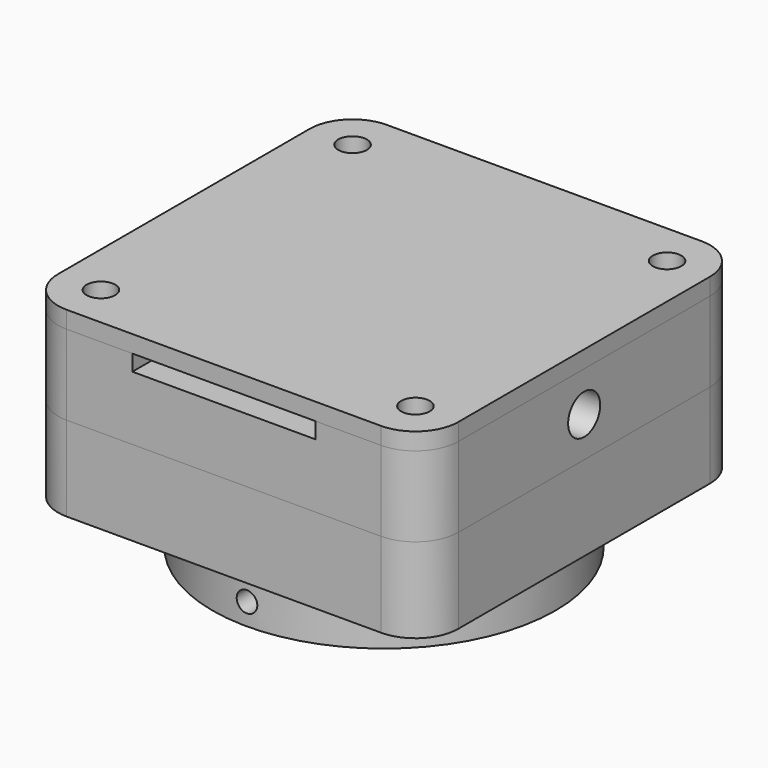
from build123d import *

# Parameters (mm, degrees)
F0_R      = 1.27
F1_DEPTH  = 4.699
F0_W      = 12.7
F0_H      = 23.8125
F0_W_2    = 8.89
F0_H_2    = 8.89
F2_DEPTH  = 2.54
F3_DEPTH  = 8.89
F0_W_3    = 20.32
F0_H_3    = 4.7625
F4_DEPTH  = 7.112
F0_R_2    = 3.81
F5_DEPTH  = 1.27
F6_R      = 1.5875
F6_R_2    = 12.827
F7_DEPTH  = 15.7734
F8_R      = 1.5875
F9_DEPTH  = 1.905
F10_R     = 1.143
F11_DEPTH = 9.4500273394
F12_R     = 1.5875
F12_R_2   = 19.05
F13_DEPTH = 6.35
F14_R     = 2.2225
F15_DEPTH = 6.985
F16_R     = 2.2225
F17_DEPTH = 6.985


with BuildPart() as f1:
    # F0 (on Top) → F1 (new body)
    with BuildSketch(Plane.XY):
        with BuildLine():
            Line((-6.35, -6.35), (-6.35, 17.4625))
            Line((-6.35, 17.4625), (-12.7, 17.4625))
            ThreePointArc((-12.7, 17.4625), (-13.0288537861, 15.7234808799), (-13.97, 14.2246226089))
            Line((-13.97, 14.2246226089), (-13.97, -14.2246226089))
            ThreePointArc((-13.97, -14.2246226089), (-13.0288537861, -15.7234808799), (-12.7, -17.4625))
            Line((-12.7, -17.4625), (-10.16, -17.4625))
            Line((-10.16, -17.4625), (10.16, -17.4625))
            Line((10.16, -17.4625), (12.7, -17.4625))
            ThreePointArc((12.7, -17.4625), (13.0288537861, -15.7234808799), (13.97, -14.2246226089))
            Line((13.97, -14.2246226089), (13.97, 14.2246226089))
            ThreePointArc((13.97, 14.2246226089), (13.0288537861, 15.7234808799), (12.7, 17.4625))
            Line((12.7, 17.4625), (6.35, 17.4625))
            Line((6.35, 17.4625), (6.35, -6.35))
            Line((6.35, -6.35), (-6.35, -6.35))
        make_face()
        with Locations((-10.16, 0)):
            Circle(F0_R, mode=Mode.SUBTRACT)
        with Locations((-10.16, 12.7)):
            Circle(F0_R, mode=Mode.SUBTRACT)
        with Locations((10.16, 0)):
            Circle(F0_R, mode=Mode.SUBTRACT)
        with Locations((10.16, 12.7)):
            Circle(F0_R, mode=Mode.SUBTRACT)
        with Locations((10.16, 12.7)):
            Circle(F0_R)
        with Locations((-10.16, 12.7)):
            Circle(F0_R)
    extrude(amount=F1_DEPTH)

    # F0 (on Top) → F2 (join)
    with BuildSketch(Plane.XY):
        with Locations((0, 5.55625)):
            Rectangle(F0_W, F0_H)
        Rectangle(F0_W_2, F0_H_2, mode=Mode.SUBTRACT)
    extrude(amount=F2_DEPTH)

    # F0 (on Top) → F3 (join)
    with BuildSketch(Plane.XY):
        with BuildLine():
            ThreePointArc((17.4625, -22.225), (14.0949039546, -20.8300960454), (12.7, -17.4625))
            Line((12.7, -17.4625), (10.16, -17.4625))
            Line((10.16, -17.4625), (10.16, -22.225))
            Line((10.16, -22.225), (17.4625, -22.225))
        make_face()
        with BuildLine():
            ThreePointArc((17.4625, -22.225), (20.8300960454, -20.8300960454), (22.225, -17.4625))
            ThreePointArc((22.225, -17.4625), (20.8300960454, -14.0949039546), (17.4625, -12.7))
            Line((17.4625, -12.7), (17.4625, -15.875))
            ThreePointArc((17.4625, -15.875), (18.5850320151, -16.3399679849), (19.05, -17.4625))
            ThreePointArc((19.05, -17.4625), (17.4625, -19.05), (15.875, -17.4625))
            Line((15.875, -17.4625), (12.7, -17.4625))
            ThreePointArc((12.7, -17.4625), (14.0949039546, -20.8300960454), (17.4625, -22.225))
        make_face()
        with BuildLine():
            ThreePointArc((17.4625, -12.7), (15.5571109092, -13.0977664844), (13.97, -14.2246226089))
            ThreePointArc((13.97, -14.2246226089), (13.0288537861, -15.7234808799), (12.7, -17.4625))
            Line((12.7, -17.4625), (15.875, -17.4625))
            ThreePointArc((15.875, -17.4625), (16.3399679849, -16.3399679849), (17.4625, -15.875))
            Line((17.4625, -15.875), (17.4625, -12.7))
        make_face()
        with BuildLine():
            Line((22.225, -17.4625), (22.225, 17.4625))
            ThreePointArc((22.225, 17.4625), (20.8300960454, 14.0949039546), (17.4625, 12.7))
            Line((17.4625, 12.7), (17.4625, -12.7))
            ThreePointArc((17.4625, -12.7), (20.8300960454, -14.0949039546), (22.225, -17.4625))
        make_face()
        with BuildLine():
            Line((15.875, 17.4625), (12.7, 17.4625))
            ThreePointArc((12.7, 17.4625), (13.0288537861, 15.7234808799), (13.97, 14.2246226089))
            ThreePointArc((13.97, 14.2246226089), (15.5571109092, 13.0977664844), (17.4625, 12.7))
            Line((17.4625, 12.7), (17.4625, 15.875))
            ThreePointArc((17.4625, 15.875), (16.3399679849, 16.3399679849), (15.875, 17.4625))
        make_face()
        with BuildLine():
            ThreePointArc((17.4625, 22.225), (14.0949039546, 20.8300960454), (12.7, 17.4625))
            Line((12.7, 17.4625), (15.875, 17.4625))
            ThreePointArc((15.875, 17.4625), (17.4625, 19.05), (19.05, 17.4625))
            ThreePointArc((19.05, 17.4625), (18.5850320151, 16.3399679849), (17.4625, 15.875))
            Line((17.4625, 15.875), (17.4625, 12.7))
            ThreePointArc((17.4625, 12.7), (20.8300960454, 14.0949039546), (22.225, 17.4625))
            ThreePointArc((22.225, 17.4625), (20.8300960454, 20.8300960454), (17.4625, 22.225))
        make_face()
        with BuildLine():
            Line((-12.7, 17.4625), (-6.35, 17.4625))
            Line((-6.35, 17.4625), (6.35, 17.4625))
            Line((6.35, 17.4625), (12.7, 17.4625))
            ThreePointArc((12.7, 17.4625), (14.0949039546, 20.8300960454), (17.4625, 22.225))
            Line((17.4625, 22.225), (-17.4624999301, 22.225))
            ThreePointArc((-17.4624999301, 22.225), (-14.0949039299, 20.8300960207), (-12.7, 17.4625))
        make_face()
        with BuildLine():
            ThreePointArc((-12.7, -17.4625), (-13.0288537861, -15.7234808799), (-13.97, -14.2246226089))
            ThreePointArc((-13.97, -14.2246226089), (-15.5571109092, -13.0977664844), (-17.4625, -12.7))
            Line((-17.4625, -12.7), (-17.4625, -15.875))
            ThreePointArc((-17.4625, -15.875), (-16.3399679849, -16.3399679849), (-15.875, -17.4625))
            Line((-15.875, -17.4625), (-12.7, -17.4625))
        make_face()
        with BuildLine():
            Line((-17.4625, -15.875), (-17.4625, -12.7))
            ThreePointArc((-17.4625, -12.7), (-20.8300960454, -14.0949039546), (-22.225, -17.4625))
            ThreePointArc((-22.225, -17.4625), (-20.8300960661, -20.8300960247), (-17.4625000586, -22.225))
            ThreePointArc((-17.4625000586, -22.225), (-14.0949039753, -20.8300960661), (-12.7, -17.4625))
            Line((-12.7, -17.4625), (-15.875, -17.4625))
            ThreePointArc((-15.875, -17.4625), (-18.5850320151, -18.5850320151), (-17.4625, -15.875))
        make_face()
        with BuildLine():
            Line((-17.4625, -12.7), (-17.4625, 12.7))
            ThreePointArc((-17.4625, 12.7), (-20.8300960454, 14.0949039546), (-22.225, 17.4625))
            Line((-22.225, 17.4625), (-22.225, -17.4625))
            ThreePointArc((-22.225, -17.4625), (-20.8300960454, -14.0949039546), (-17.4625, -12.7))
        make_face()
        with BuildLine():
            ThreePointArc((-13.97, 14.2246226089), (-13.0288537861, 15.7234808799), (-12.7, 17.4625))
            Line((-12.7, 17.4625), (-15.875, 17.4625))
            ThreePointArc((-15.875, 17.4625), (-16.3399679849, 16.3399679849), (-17.4625, 15.875))
            Line((-17.4625, 15.875), (-17.4625, 12.7))
            ThreePointArc((-17.4625, 12.7), (-15.5571109092, 13.0977664844), (-13.97, 14.2246226089))
        make_face()
        with BuildLine():
            Line((-15.875, 17.4625), (-12.7, 17.4625))
            ThreePointArc((-12.7, 17.4625), (-14.0949039299, 20.8300960207), (-17.4624999301, 22.225))
            ThreePointArc((-17.4624999301, 22.225), (-20.8300960207, 20.8300960701), (-22.225, 17.4625))
            ThreePointArc((-22.225, 17.4625), (-20.8300960454, 14.0949039546), (-17.4625, 12.7))
            Line((-17.4625, 12.7), (-17.4625, 15.875))
            ThreePointArc((-17.4625, 15.875), (-18.5850320151, 18.5850320151), (-15.875, 17.4625))
        make_face()
        with BuildLine():
            Line((-10.16, -17.4625), (-12.7, -17.4625))
            ThreePointArc((-12.7, -17.4625), (-14.0949039753, -20.8300960661), (-17.4625000586, -22.225))
            Line((-17.4625000586, -22.225), (-10.16, -22.225))
            Line((-10.16, -22.225), (-10.16, -17.4625))
        make_face()
        with BuildLine():
            Line((-13.97, -14.2246226089), (-13.97, 14.2246226089))
            ThreePointArc((-13.97, 14.2246226089), (-15.5571109092, 13.0977664844), (-17.4625, 12.7))
            Line((-17.4625, 12.7), (-17.4625, -12.7))
            ThreePointArc((-17.4625, -12.7), (-15.5571109092, -13.0977664844), (-13.97, -14.2246226089))
        make_face()
        with BuildLine():
            ThreePointArc((17.4625, 12.7), (15.5571109092, 13.0977664844), (13.97, 14.2246226089))
            Line((13.97, 14.2246226089), (13.97, -14.2246226089))
            ThreePointArc((13.97, -14.2246226089), (15.5571109092, -13.0977664844), (17.4625, -12.7))
            Line((17.4625, -12.7), (17.4625, 12.7))
        make_face()
    extrude(amount=F3_DEPTH)

    # F0 (on Top) → F4 (join)
    with BuildSketch(Plane.XY):
        with Locations((0, -19.84375)):
            Rectangle(F0_W_3, F0_H_3)
    extrude(amount=F4_DEPTH)

    # F0 (on Top) → F5 (join)
    with BuildSketch(Plane.XY):
        Rectangle(F0_W_2, F0_H_2)
        Circle(F0_R_2, mode=Mode.SUBTRACT)
    extrude(amount=F5_DEPTH)

    # F14 (on face) → F15 (cut)
    with BuildSketch(Plane(origin=(-22.225, 0, 0), x_dir=(0, -1, 0), z_dir=(-1, 0, 0))):
        with Locations((0, 4.445)):
            Circle(F14_R)
    extrude(amount=-F15_DEPTH, mode=Mode.SUBTRACT)

    # F16 (on face) → F17 (cut)
    with BuildSketch(Plane.YZ.offset(22.225)):
        with Locations((0, 4.445)):
            Circle(F16_R)
    extrude(amount=-F17_DEPTH, mode=Mode.SUBTRACT)


with BuildPart() as f7:
    # F6 (on face) → F7 (new body)
    with BuildSketch(Plane(origin=(0, 0, 0), x_dir=(1, 0, 0), z_dir=(0, 0, -1))):
        with BuildLine():
            ThreePointArc((22.225, 17.4625), (20.8300960454, 20.8300960454), (17.4625, 22.225))
            Line((17.4625, 22.225), (-17.4625000586, 22.225))
            ThreePointArc((-17.4625000586, 22.225), (-20.8300960661, 20.8300960247), (-22.225, 17.4625))
            Line((-22.225, 17.4625), (-22.225, -17.4625))
            ThreePointArc((-22.225, -17.4625), (-20.8300960207, -20.8300960701), (-17.4624999301, -22.225))
            Line((-17.4624999301, -22.225), (17.4625, -22.225))
            ThreePointArc((17.4625, -22.225), (20.8300960454, -20.8300960454), (22.225, -17.4625))
            Line((22.225, -17.4625), (22.225, 17.4625))
        make_face()
        with Locations((-17.4625, -17.4625)):
            Circle(F6_R, mode=Mode.SUBTRACT)
        with Locations((17.4625, -17.4625)):
            Circle(F6_R, mode=Mode.SUBTRACT)
        with Locations((-17.4625, 17.4625)):
            Circle(F6_R, mode=Mode.SUBTRACT)
        Circle(F6_R_2, mode=Mode.SUBTRACT)
        with Locations((17.4625, 17.4625)):
            Circle(F6_R, mode=Mode.SUBTRACT)
    extrude(amount=F7_DEPTH)

    # F10 (on face) → F11 (cut, through all)
    with BuildSketch(Plane.XZ.offset(22.225)):
        with Locations((0, -13.3604)):
            Circle(F10_R)
    extrude(amount=-F11_DEPTH, mode=Mode.SUBTRACT)

    # F12 (on face) → F13 (cut)
    with BuildSketch(Plane(origin=(0, 0, -15.7734), x_dir=(1, 0, 0), z_dir=(0, 0, -1))):
        with BuildLine():
            Line((22.225, -17.4625), (22.225, 17.4625))
            ThreePointArc((22.225, 17.4625), (20.8300960454, 20.8300960454), (17.4625, 22.225))
            Line((17.4625, 22.225), (-17.4625000586, 22.225))
            ThreePointArc((-17.4625000586, 22.225), (-20.8300960661, 20.8300960247), (-22.225, 17.4625))
            Line((-22.225, 17.4625), (-22.225, -17.4625))
            ThreePointArc((-22.225, -17.4625), (-20.8300960207, -20.8300960701), (-17.4624999301, -22.225))
            Line((-17.4624999301, -22.225), (17.4625, -22.225))
            ThreePointArc((17.4625, -22.225), (20.8300960454, -20.8300960454), (22.225, -17.4625))
        make_face()
        with Locations((-17.4625, -17.4625)):
            Circle(F12_R, mode=Mode.SUBTRACT)
        with Locations((17.4625, -17.4625)):
            Circle(F12_R, mode=Mode.SUBTRACT)
        with Locations((-17.4625, 17.4625)):
            Circle(F12_R, mode=Mode.SUBTRACT)
        Circle(F12_R_2, mode=Mode.SUBTRACT)
        with Locations((17.4625, 17.4625)):
            Circle(F12_R, mode=Mode.SUBTRACT)
        with Locations((17.4625, -17.4625)):
            Circle(F12_R)
        with Locations((-17.4625, -17.4625)):
            Circle(F12_R)
        with Locations((-17.4625, 17.4625)):
            Circle(F12_R)
    extrude(amount=-F13_DEPTH, mode=Mode.SUBTRACT)


with BuildPart() as f9:
    # F8 (on face) → F9 (new body)
    with BuildSketch(Plane.XY.offset(8.89)):
        with BuildLine():
            Line((10.16, -22.225), (17.4625, -22.225))
            ThreePointArc((17.4625, -22.225), (20.8300960454, -20.8300960454), (22.225, -17.4625))
            Line((22.225, -17.4625), (22.225, 17.4625))
            ThreePointArc((22.225, 17.4625), (20.8300960454, 20.8300960454), (17.4625, 22.225))
            Line((17.4625, 22.225), (-17.4625, 22.225))
            ThreePointArc((-17.4625, 22.225), (-20.8300960454, 20.8300960454), (-22.225, 17.4625))
            Line((-22.225, 17.4625), (-22.225, -17.4625))
            ThreePointArc((-22.225, -17.4625), (-20.8300960454, -20.8300960454), (-17.4625, -22.225))
            Line((-17.462500039, -22.225), (-10.16, -22.225))
            Line((-10.16, -22.225), (-10.16, -17.4625))
            Line((-10.16, -17.4625), (-12.7, -17.4625))
            ThreePointArc((-12.7, -17.4625), (-13.0288537861, -15.7234808799), (-13.97, -14.2246226089))
            Line((-13.97, -14.2246226089), (-13.97, 14.2246226089))
            ThreePointArc((-13.97, 14.2246226089), (-13.0288537861, 15.7234808799), (-12.7, 17.4625))
            Line((-12.7, 17.4625), (12.7, 17.4625))
            ThreePointArc((12.7, 17.4625), (13.0288537861, 15.7234808799), (13.97, 14.2246226089))
            Line((13.97, 14.2246226089), (13.97, -14.2246226089))
            ThreePointArc((13.97, -14.2246226089), (13.0288537861, -15.7234808799), (12.7, -17.4625))
            Line((12.7, -17.4625), (10.16, -17.4625))
            Line((10.16, -17.4625), (10.16, -22.225))
        make_face()
        with Locations((-17.4625, -17.4625)):
            Circle(F8_R, mode=Mode.SUBTRACT)
        with Locations((17.4625, -17.4625)):
            Circle(F8_R, mode=Mode.SUBTRACT)
        with Locations((-17.4625, 17.4625)):
            Circle(F8_R, mode=Mode.SUBTRACT)
        with Locations((17.4625, 17.4625)):
            Circle(F8_R, mode=Mode.SUBTRACT)
        with BuildLine():
            Line((9.779, -17.4625), (10.16, -17.4625))
            Line((10.16, -17.4625), (12.7, -17.4625))
            ThreePointArc((12.7, -17.4625), (13.0288537861, -15.7234808799), (13.97, -14.2246226089))
            Line((13.97, -14.2246226089), (13.97, 14.2246226089))
            ThreePointArc((13.97, 14.2246226089), (13.0288537861, 15.7234808799), (12.7, 17.4625))
            Line((12.7, 17.4625), (-12.7, 17.4625))
            ThreePointArc((-12.7, 17.4625), (-13.0288537861, 15.7234808799), (-13.97, 14.2246226089))
            Line((-13.97, 14.2246226089), (-13.97, -14.2246226089))
            ThreePointArc((-13.97, -14.2246226089), (-13.0288537861, -15.7234808799), (-12.7, -17.4625))
            Line((-12.7, -17.4625), (-10.16, -17.4625))
            Line((-10.16, -17.4625), (-9.779, -17.4625))
            Line((-9.779, -17.4625), (9.779, -17.4625))
        make_face()
        Polygon((-10.16, -22.225), (10.16, -22.225), (10.16, -17.4625), (9.779, -17.4625), (-9.779, -17.4625), (-10.16, -17.4625), align=None)
        Polygon((-10.16, -22.225), (10.16, -22.225), (10.16, -17.4625), (9.779, -17.4625), (-9.779, -17.4625), (-10.16, -17.4625), align=None)
        with BuildLine():
            Line((9.779, -17.4625), (10.16, -17.4625))
            Line((10.16, -17.4625), (12.7, -17.4625))
            ThreePointArc((12.7, -17.4625), (13.0288537861, -15.7234808799), (13.97, -14.2246226089))
            Line((13.97, -14.2246226089), (13.97, 14.2246226089))
            ThreePointArc((13.97, 14.2246226089), (13.0288537861, 15.7234808799), (12.7, 17.4625))
            Line((12.7, 17.4625), (-12.7, 17.4625))
            ThreePointArc((-12.7, 17.4625), (-13.0288537861, 15.7234808799), (-13.97, 14.2246226089))
            Line((-13.97, 14.2246226089), (-13.97, -14.2246226089))
            ThreePointArc((-13.97, -14.2246226089), (-13.0288537861, -15.7234808799), (-12.7, -17.4625))
            Line((-12.7, -17.4625), (-10.16, -17.4625))
            Line((-10.16, -17.4625), (-9.779, -17.4625))
            Line((-9.779, -17.4625), (9.779, -17.4625))
        make_face()
        Polygon((-10.16, -22.225), (10.16, -22.225), (10.16, -17.4625), (9.779, -17.4625), (-9.779, -17.4625), (-10.16, -17.4625), align=None)
    extrude(amount=F9_DEPTH)


solid = Compound([f1.part, f7.part, f9.part])
